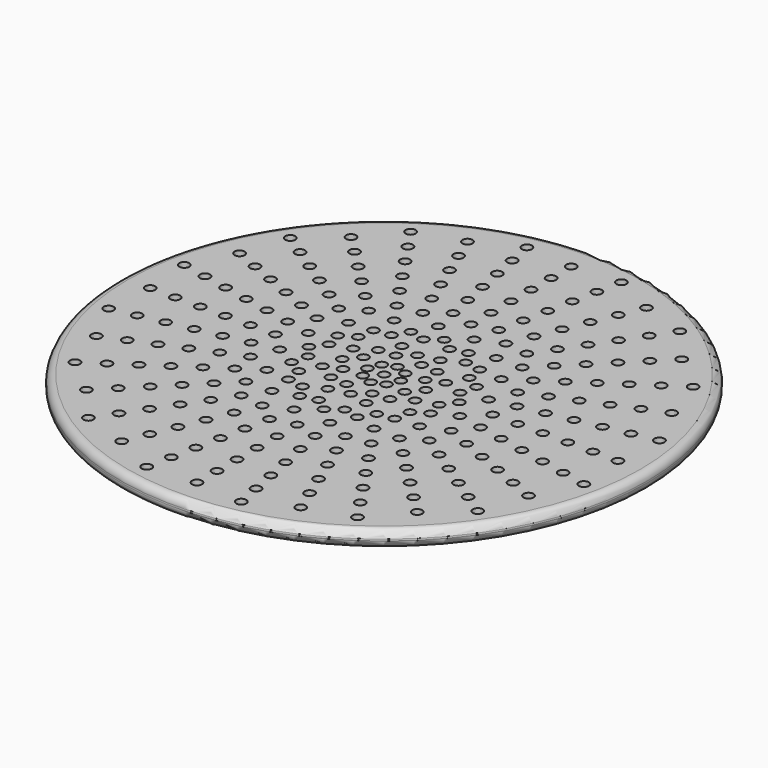
from build123d import *

# Parameters (mm, degrees)
F0_W     = 31.6
F0_H     = 2
F3_R     = 0.9
F4_D     = 1.2
F4_DEPTH = 2
F5_D     = 1.2
F5_DEPTH = 2
F6_D     = 1.2
F6_DEPTH = 2
F7_D     = 1.2
F7_DEPTH = 2
F12_D    = 1.2
F13_D    = 1.2
F14_D    = 1.2
F15_D    = 1.2
F8_D     = 1.2
F16_D    = 1.2
F17_D    = 1.2
F18_D    = 1.2
F9_D     = 1.2
F10_D    = 1.2
F11_D    = 1.2
F19_D    = 1.2
F20_D    = 1.2


with BuildPart() as f1:
    # F0 (on Front) → F1 (revolve)
    with BuildSketch(Plane.XZ):
        with Locations((15.8, 1)):
            Rectangle(F0_W, F0_H)
    revolve(axis=Axis((0, 0, 1.352197), (0, 0, 1)))

    # F3
    f3_edges = [f1.edges().sort_by_distance(p)[0] for p in [
        (-31.6, 0, 2),
        (-31.6, 0, 0),
        (31.6, 0, 1),
    ]]
    fillet(f3_edges, radius=F3_R)

    # F4
    with Locations(Plane.XY.offset(2)):
        with Locations((0, 0), (-2, 0), (-1.414214, 1.414214), (0, 2), (1.414214, 1.414214), (2, 0), (1.414214, -1.414214), (0, -2), (-1.414214, -1.414214)):
            Hole(F4_D / 2, depth=F4_DEPTH)

    # F5
    with Locations(Plane.XY.offset(2)):
        with Locations((-1.530734, 3.695518), (1.530734, 3.695518), (3.695518, 1.530734), (3.695518, -1.530734), (1.530734, -3.695518), (-1.530734, -3.695518), (-3.695518, -1.530734), (-3.695518, 1.530734), (-3.535534, 3.535534), (0, 5), (3.535534, 3.535534), (5, 0), (3.535534, -3.535534), (0, -5), (-3.535534, -3.535534), (-5, 0)):
            Hole(F5_D / 2, depth=F5_DEPTH)

    # F6
    with Locations(Plane.XY.offset(2)):
        with Locations((2.296101, 5.543277), (5.543277, 2.296101), (5.543277, -2.296101), (2.296101, -5.543277), (-2.296101, -5.543277), (-5.543277, -2.296101), (-5.543277, 2.296101), (-2.296101, 5.543277), (7.846282, 1.560723), (7.846282, -1.560723), (6.651757, -4.444562), (4.444562, -6.651757), (1.560723, -7.846282), (-1.560723, -7.846282), (-4.444562, -6.651757), (-6.651757, -4.444562), (-7.846282, -1.560723), (-7.846282, 1.560723), (-6.651757, 4.444562), (-4.444562, 6.651757), (-1.560723, 7.846282), (1.560723, 7.846282), (4.444562, 6.651757), (6.651757, 4.444562)):
            Hole(F6_D / 2, depth=F6_DEPTH)

    # F7
    with Locations(Plane.XY.offset(2)):
        with Locations((-3.444151, 8.314916), (0, 9), (3.444151, 8.314916), (6.363961, 6.363961), (8.314916, 3.444151), (9, 0), (8.314916, -3.444151), (6.363961, -6.363961), (3.444151, -8.314916), (0, -9), (-3.444151, -8.314916), (-6.363961, -6.363961), (-8.314916, -3.444151), (-9, 0), (-8.314916, 3.444151), (-6.363961, 6.363961)):
            Hole(F7_D / 2, depth=F7_DEPTH)

    # F12 (through all)
    with Locations(Plane.XY.offset(2)):
        with Locations((-2.145994, 10.788638), (2.145994, 10.788638), (6.111273, 9.146166), (9.146166, 6.111273), (10.788638, 2.145994), (10.788638, -2.145994), (9.146166, -6.111273), (6.111273, -9.146166), (2.145994, -10.788638), (-2.145994, -10.788638), (-6.111273, -9.146166), (-9.146166, -6.111273), (-10.788638, -2.145994), (-10.788638, 2.145994), (-9.146166, 6.111273), (-6.111273, 9.146166)):
            Hole(F12_D / 2)

    # F13 (through all)
    with Locations(Plane.XY.offset(2)):
        with Locations((0, 13), (-4.974885, 12.010434), (4.974885, 12.010434), (9.192388, 9.192388), (12.010434, 4.974885), (13, 0), (12.010434, -4.974885), (9.192388, -9.192388), (4.974885, -12.010434), (0, -13), (-4.974885, -12.010434), (-9.192388, -9.192388), (-12.010434, -4.974885), (-13, 0), (-12.010434, 4.974885), (-9.192388, 9.192388)):
            Hole(F13_D / 2)

    # F14 (through all)
    with Locations(Plane.XY.offset(2)):
        with Locations((-7.777983, 11.640575), (-2.731265, 13.730994), (2.731265, 13.730994), (7.777983, 11.640575), (11.640575, 7.777983), (13.730994, 2.731265), (13.730994, -2.731265), (11.640575, -7.777983), (7.777983, -11.640575), (2.731265, -13.730994), (-2.731265, -13.730994), (-7.777983, -11.640575), (-11.640575, -7.777983), (-13.730994, -2.731265), (-13.730994, 2.731265), (-11.640575, 7.777983)):
            Hole(F14_D / 2)

    # F15 (through all)
    with Locations(Plane.XY.offset(2)):
        with Locations((0, 16), (6.122935, 14.782073), (11.313708, 11.313708), (14.782073, 6.122935), (16, 0), (14.782073, -6.122935), (11.313708, -11.313708), (6.122935, -14.782073), (0, -16), (-6.122935, -14.782073), (-11.313708, -11.313708), (-14.782073, -6.122935), (-16, 0), (-14.782073, 6.122935), (-11.313708, 11.313708), (-6.122935, 14.782073)):
            Hole(F15_D / 2)

    # F8 (through all)
    with Locations(Plane.XY.offset(2)):
        with Locations((-3.316535, 16.67335), (3.316535, 16.67335), (9.444694, 14.134983), (14.134983, 9.444694), (16.67335, 3.316535), (16.67335, -3.316535), (14.134983, -9.444694), (9.444694, -14.134983), (3.316535, -16.67335), (-3.316535, -16.67335), (-9.444694, -14.134983), (-14.134983, -9.444694), (-16.67335, -3.316535), (-16.67335, 3.316535), (-14.134983, 9.444694), (-9.444694, 14.134983)):
            Hole(F8_D / 2)

    # F16 (through all)
    with Locations(Plane.XY.offset(2)):
        with Locations((0, 19), (7.270985, 17.553711), (13.435029, 13.435029), (17.553711, 7.270985), (19, 0), (17.553711, -7.270985), (13.435029, -13.435029), (7.270985, -17.553711), (0, -19), (-7.270985, -17.553711), (-13.435029, -13.435029), (-17.553711, -7.270985), (-19, 0), (-17.553711, 7.270985), (-7.270985, 17.553711), (-13.435029, 13.435029)):
            Hole(F16_D / 2)

    # F17 (through all)
    with Locations(Plane.XY.offset(2)):
        with Locations((-3.901806, 19.615706), (3.901806, 19.615706), (11.111405, 16.629392), (16.629392, 11.111405), (19.615706, 3.901806), (19.615706, -3.901806), (16.629392, -11.111405), (11.111405, -16.629392), (3.901806, -19.615706), (-3.901806, -19.615706), (-11.111405, -16.629392), (-16.629392, -11.111405), (-19.615706, -3.901806), (-19.615706, 3.901806), (-16.629392, 11.111405), (-11.09782, 16.609061)):
            Hole(F17_D / 2)

    # F18 (through all)
    with Locations(Plane.XY.offset(2)):
        with Locations((0, 22), (8.419036, 20.32535), (15.556349, 15.556349), (20.32535, 8.419036), (22, 0), (20.32535, -8.419036), (15.556349, -15.556349), (8.419036, -20.32535), (0, -22), (-8.419036, -20.32535), (-15.556349, -15.556349), (-20.32535, -8.419036), (-22, 0), (-20.32535, 8.419036), (-15.556349, 15.556349), (-8.419036, 20.32535)):
            Hole(F18_D / 2)

    # F9 (through all)
    with Locations(Plane.XY.offset(2)):
        with Locations((4.487077, 22.558061), (12.778115, 19.123801), (19.123801, 12.778115), (22.558061, 4.487077), (22.558061, -4.487077), (19.123801, -12.778115), (12.778115, -19.123801), (4.487077, -22.558061), (-4.487077, -22.558061), (-12.778115, -19.123801), (-19.123801, -12.778115), (-22.558061, -4.487077), (-22.558061, 4.487077), (-19.123801, 12.778115), (-12.778115, 19.123801), (-4.487077, 22.558061)):
            Hole(F9_D / 2)

    # F10 (through all)
    with Locations(Plane.XY.offset(2)):
        with Locations((0, 25), (9.567086, 23.096988), (17.67767, 17.67767), (23.096988, 9.567086), (25, 0), (23.096988, -9.567086), (17.67767, -17.67767), (9.567086, -23.096988), (0, -25), (-9.567086, -23.096988), (-17.67767, -17.67767), (-23.096988, -9.567086), (-25, 0), (-23.096988, 9.567086), (-17.67767, 17.67767), (-9.567086, 23.096988)):
            Hole(F10_D / 2)

    # F11 (through all)
    with Locations(Plane.XY.offset(2)):
        with Locations((-5.072348, 25.500417), (5.072348, 25.500417), (14.444826, 21.61821), (21.61821, 14.444826), (25.500417, 5.072348), (25.500417, -5.072348), (21.61821, -14.444826), (14.444826, -21.61821), (5.072348, -25.500417), (-5.072348, -25.500417), (-14.444826, -21.61821), (-21.61821, -14.444826), (-25.500417, -5.072348), (-25.500417, 5.072348), (-21.61821, 14.444826), (-14.444826, 21.61821)):
            Hole(F11_D / 2)

    # F19 (through all)
    with Locations(Plane.XY.offset(2)):
        with Locations((0, 28), (10.715136, 25.868627), (19.79899, 19.79899), (25.868627, 10.715136), (28, 0), (25.868627, -10.715136), (19.79899, -19.79899), (10.715136, -25.868627), (0, -28), (-10.715136, -25.868627), (-19.79899, -19.79899), (-25.868627, -10.715136), (-28, 0), (-25.868627, 10.715136), (-19.79899, 19.79899), (-10.715136, 25.868627)):
            Hole(F19_D / 2)

    # F20 (through all)
    with Locations(Plane.XY.offset(2)):
        with Locations((-5.657619, 28.442773), (5.657619, 28.442773), (16.111537, 24.112619), (24.112619, 16.111537), (28.442773, 5.657619), (28.442773, -5.657619), (24.112619, -16.111537), (16.111537, -24.112619), (5.657619, -28.442773), (-5.657619, -28.442773), (-16.111537, -24.112619), (-24.112619, -16.111537), (-28.442773, -5.657619), (-28.442773, 5.657619), (-24.112619, 16.111537), (-12.778115, 19.123801), (-16.111537, 24.112619)):
            Hole(F20_D / 2)


solid = f1.part
